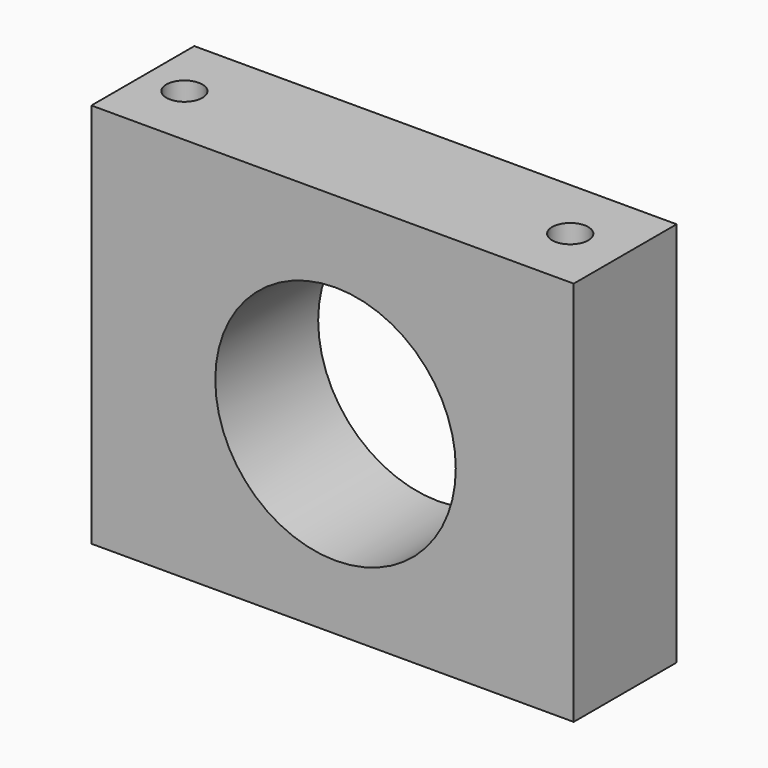
from build123d import *

# Parameters (mm, degrees)
F0_W     = 95.25
F0_H     = 76.2
F0_R     = 23.749
F1_DEPTH = 25.4
F2_R     = 3.5687
F3_DEPTH = 76.201


with BuildPart() as f1:
    # F0 (on Front) → F1 (new body)
    with BuildSketch(Plane.XZ):
        with Locations((-0.587856, 1.61117)):
            Rectangle(F0_W, F0_H)
        Circle(F0_R, mode=Mode.SUBTRACT)
    extrude(amount=F1_DEPTH)

    # F2 (on face) → F3 (cut, through all)
    with BuildSketch(Plane.XY.offset(39.71117)):
        with Locations((-40.009069, -12.7)):
            Circle(F2_R)
        with Locations((36.190931, -12.7)):
            Circle(F2_R)
    extrude(amount=-F3_DEPTH, mode=Mode.SUBTRACT)


solid = f1.part
